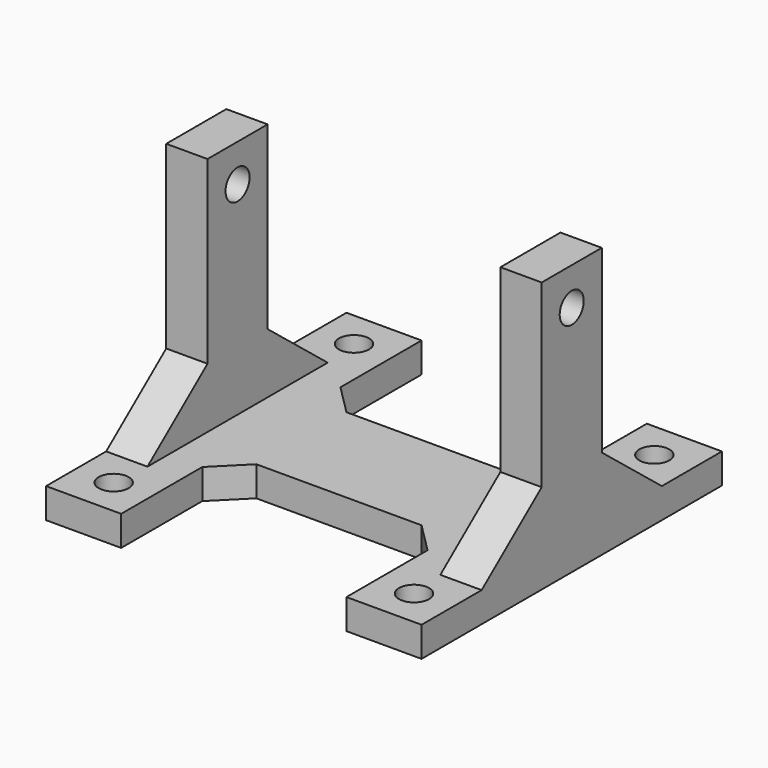
from build123d import *

# Parameters (mm, degrees)
SKETCH_W        = 25
SKETCH_H        = 25
SKETCH_R        = 1
PAD_DEPTH       = 2
SKETCH001_W     = 2.75
SKETCH001_H     = 15
PAD001_DEPTH    = 16
SKETCH002_W     = 15
SKETCH002_H     = 8.75
POCKET_DEPTH    = 100
CHAMFER_SIZE    = 2
SKETCH003_R     = 1
POCKET001_DEPTH = 100
POCKET002_DEPTH = 100


with BuildPart() as part:
    # Sketch → Pad (new body)
    with BuildSketch(Plane.XY):
        with Locations((12.5, 12.5)):
            Rectangle(SKETCH_W, SKETCH_H)
        with Locations((2.5, 22.5)):
            Circle(SKETCH_R, mode=Mode.SUBTRACT)
        with Locations((22.5, 22.5)):
            Circle(SKETCH_R, mode=Mode.SUBTRACT)
        with Locations((22.5, 2.5)):
            Circle(SKETCH_R, mode=Mode.SUBTRACT)
        with Locations((2.5, 2.5)):
            Circle(SKETCH_R, mode=Mode.SUBTRACT)
    extrude(amount=PAD_DEPTH)

    # Sketch001 (on Face10 of Pad) → Pad001 (join)
    with BuildSketch(Plane.XY.offset(2)):
        with Locations((1.375, 12.5)):
            Rectangle(SKETCH001_W, SKETCH001_H)
        with Locations((23.625, 12.5)):
            Rectangle(SKETCH001_W, SKETCH001_H)
    extrude(amount=PAD001_DEPTH)

    # Sketch002 (on Face5 of Pad001) → Pocket (cut)
    with BuildSketch(Plane.XY.offset(2)):
        with Locations((12.5, 20.625)):
            Rectangle(SKETCH002_W, SKETCH002_H)
        with Locations((12.5, 4.375)):
            Rectangle(SKETCH002_W, SKETCH002_H)
    extrude(amount=-POCKET_DEPTH, mode=Mode.SUBTRACT)

    # Chamfer
    chamfer_edges = [part.edges().sort_by_distance(p)[0] for p in [
        (20, 16.25, 1),
        (5, 16.25, 1),
        (5, 8.75, 1),
        (20, 8.75, 1),
    ]]
    chamfer(chamfer_edges, length=CHAMFER_SIZE)

    # Sketch003 (on Face24 of Chamfer) → Pocket001 (cut)
    with BuildSketch(Plane.YZ.offset(25)):
        with Locations((12.5, 15.5)):
            Circle(SKETCH003_R)
    extrude(amount=-POCKET001_DEPTH, mode=Mode.SUBTRACT)

    # Sketch004 (on Face24 of Pocket001) → Pocket002 (cut)
    with BuildSketch(Plane.YZ.offset(25)):
        Polygon((10, 18), (10, 6), (5, 2), (5, 18), align=None)
        Polygon((15, 18), (15, 6), (20, 2), (20, 18), align=None)
    extrude(amount=-POCKET002_DEPTH, mode=Mode.SUBTRACT)


solid = part.part
